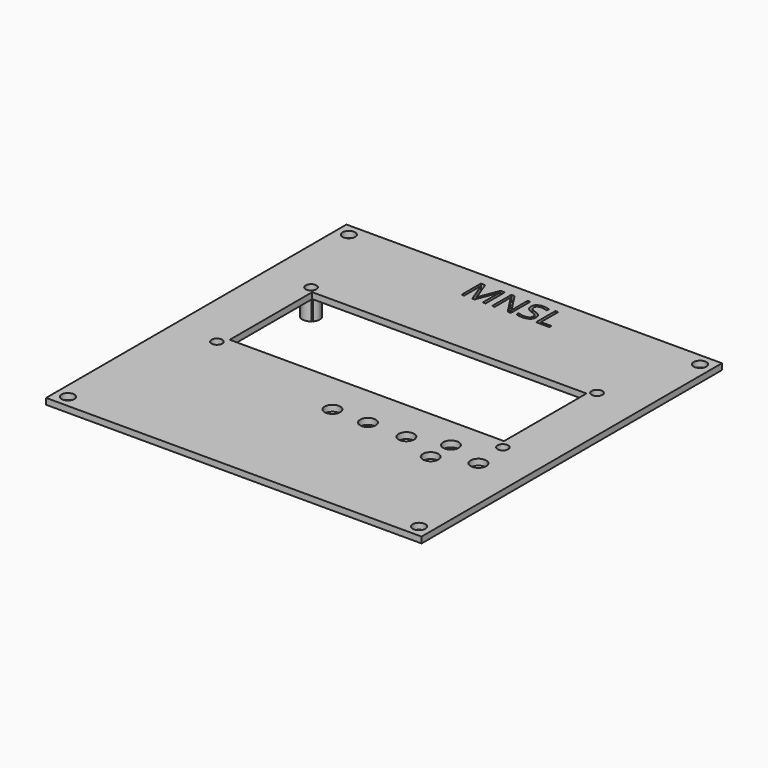
from build123d import *

# Parameters (mm, degrees)
F0_W     = 98.044
F0_H     = 98.044
F0_R     = 1.651
F0_R_2   = 2.286
F0_R_3   = 2.032
F0_R_4   = 1.397
F1_DEPTH = 1.5875
F2_DEPTH = 5.08


with BuildPart() as f1:
    # F0 (on Top) → F1 (new body)
    with BuildSketch(Plane.XY):
        Rectangle(F0_W, F0_H)
        with Locations((-45.847, -45.847)):
            Circle(F0_R, mode=Mode.SUBTRACT)
        with Locations((-37.338, -7.874)):
            Circle(F0_R_2, mode=Mode.SUBTRACT)
        with Locations((-0.254, -16.51)):
            Circle(F0_R_3, mode=Mode.SUBTRACT)
        with Locations((45.847, -45.847)):
            Circle(F0_R, mode=Mode.SUBTRACT)
        with Locations((9.017, -16.51)):
            Circle(F0_R_3, mode=Mode.SUBTRACT)
        with Locations((19.05, -16.51)):
            Circle(F0_R_3, mode=Mode.SUBTRACT)
        with Locations((28.448, -20.32)):
            Circle(F0_R_3, mode=Mode.SUBTRACT)
        with Locations((28.448, -13.716)):
            Circle(F0_R_3, mode=Mode.SUBTRACT)
        with Locations((37.8543436527, -16.51)):
            Circle(F0_R_3, mode=Mode.SUBTRACT)
        with Locations((37.338, -7.874)):
            Circle(F0_R_2, mode=Mode.SUBTRACT)
        with Locations((-45.847, 45.847)):
            Circle(F0_R, mode=Mode.SUBTRACT)
        with BuildLine():
            Line((-7.9581705729, 39.497), (-8.5479709201, 39.497))
            Line((-8.5479709201, 39.497), (-10.6839301215, 45.0780546875))
            Line((-10.6839301215, 45.0780546875), (-10.7183810764, 45.0780546875))
            add(Edge.make_bspline(
                [(-10.7183810764, 45.0780546875), (-10.6577473958, 44.415218316), (-10.6577473958, 43.5015789931)],
                knots=[0, 0, 0, 1, 1, 1], degree=2))
            Line((-10.6577473958, 43.5015789931), (-10.6577473958, 39.497))
            Line((-10.6577473958, 39.497), (-11.3343641493, 39.497))
            Line((-11.3343641493, 39.497), (-11.3343641493, 45.7932565104))
            Line((-11.3343641493, 45.7932565104), (-10.2319335938, 45.7932565104))
            Line((-10.2319335938, 45.7932565104), (-8.2379123264, 40.5994305556))
            Line((-8.2379123264, 40.5994305556), (-8.2034613715, 40.5994305556))
            Line((-8.2034613715, 40.5994305556), (-6.1929036458, 45.7932565104))
            Line((-6.1929036458, 45.7932565104), (-5.0987413194, 45.7932565104))
            Line((-5.0987413194, 45.7932565104), (-5.0987413194, 39.497))
            Line((-5.0987413194, 39.497), (-5.8304796007, 39.497))
            Line((-5.8304796007, 39.497), (-5.8304796007, 43.5539444444))
            add(Edge.make_bspline(
                [(-5.8304796007, 43.5539444444), (-5.8304796007, 44.2512317708), (-5.7698459201, 45.0697864583)],
                knots=[0, 0, 0, 1, 1, 1], degree=2))
            Line((-5.7698459201, 45.0697864583), (-5.804296875, 45.0697864583))
            Line((-5.804296875, 45.0697864583), (-7.9581705729, 39.497))
        make_face(mode=Mode.SUBTRACT)
        with BuildLine():
            Line((1.5461588542, 45.7932565104), (1.5461588542, 39.497))
            Line((1.5461588542, 39.497), (0.7110677083, 39.497))
            Line((0.7110677083, 39.497), (-2.7298936632, 44.7803984375))
            Line((-2.7298936632, 44.7803984375), (-2.7643446181, 44.7803984375))
            add(Edge.make_bspline(
                [(-2.7643446181, 44.7803984375), (-2.6954427083, 43.8502226563), (-2.6954427083, 43.075765191)],
                knots=[0, 0, 0, 1, 1, 1], degree=2))
            Line((-2.6954427083, 43.075765191), (-2.6954427083, 39.497))
            Line((-2.6954427083, 39.497), (-3.3720594618, 39.497))
            Line((-3.3720594618, 39.497), (-3.3720594618, 45.7932565104))
            Line((-3.3720594618, 45.7932565104), (-2.5452365451, 45.7932565104))
            Line((-2.5452365451, 45.7932565104), (0.8874565972, 40.5305286458))
            Line((0.8874565972, 40.5305286458), (0.9219075521, 40.5305286458))
            add(Edge.make_bspline(
                [(0.9219075521, 40.5305286458), (0.9136393229, 40.6462838542), (0.8833224826, 41.2774253472)],
                knots=[0, 0, 0, 1, 1, 1], degree=2))
            add(Edge.make_bspline(
                [(0.8833224826, 41.2774253472), (0.8530056424, 41.9085668403), (0.8612738715, 42.1800403646)],
                knots=[0, 0, 0, 1, 1, 1], degree=2))
            Line((0.8612738715, 42.1800403646), (0.8612738715, 45.7932565104))
            Line((0.8612738715, 45.7932565104), (1.5461588542, 45.7932565104))
        make_face(mode=Mode.SUBTRACT)
        with BuildLine():
            ThreePointArc((-35.814, 21.1561162011), (-39.4248229441, 23.793255592), (-35.052, 22.86))
            ThreePointArc((-35.052, 22.86), (-35.2024819874, 22.0443047028), (-35.6341162011, 21.336))
            Line((-35.6341162011, 21.336), (35.6341162011, 21.336))
            ThreePointArc((35.6341162011, 21.336), (36.5223047028, 24.9955180126), (39.624, 22.86))
            ThreePointArc((39.624, 22.86), (38.271255592, 20.7731770559), (35.814, 21.1561162011))
            Line((35.814, 21.1561162011), (35.814, -5.588))
            Line((35.814, -5.588), (-35.814, -5.588))
            Line((-35.814, -5.588), (-35.814, 21.1561162011))
        make_face(mode=Mode.SUBTRACT)
        with BuildLine():
            add(Edge.make_bspline(
                [(6.4574869792, 42.2227595486), (6.8295572917, 41.8176163194), (6.8295572917, 41.1726944444)],
                knots=[0, 0, 0, 1, 1, 1], degree=2))
            add(Edge.make_bspline(
                [(6.8295572917, 41.1726944444), (6.8295572917, 40.3417374132), (6.2266655816, 39.8759605035)],
                knots=[0, 0, 0, 1, 1, 1], degree=2))
            add(Edge.make_bspline(
                [(6.2266655816, 39.8759605035), (5.6237738715, 39.4101835938), (4.5902452257, 39.4101835938)],
                knots=[0, 0, 0, 1, 1, 1], degree=2))
            add(Edge.make_bspline(
                [(4.5902452257, 39.4101835938), (3.4712782118, 39.4101835938), (2.8676974826, 39.6995716146)],
                knots=[0, 0, 0, 1, 1, 1], degree=2))
            Line((2.8676974826, 39.6995716146), (2.8676974826, 40.4051271701))
            add(Edge.make_bspline(
                [(2.8676974826, 40.4051271701), (3.2563042535, 40.2425186632), (3.7124348958, 40.1474340278)],
                knots=[0, 0, 0, 1, 1, 1], degree=2))
            add(Edge.make_bspline(
                [(3.7124348958, 40.1474340278), (4.1685655382, 40.0523493924), (4.6164279514, 40.0523493924)],
                knots=[0, 0, 0, 1, 1, 1], degree=2))
            add(Edge.make_bspline(
                [(4.6164279514, 40.0523493924), (5.3481662326, 40.0523493924), (5.7188585069, 40.3300240885)],
                knots=[0, 0, 0, 1, 1, 1], degree=2))
            add(Edge.make_bspline(
                [(5.7188585069, 40.3300240885), (6.0895507813, 40.6076987847), (6.0895507813, 41.1037925347)],
                knots=[0, 0, 0, 1, 1, 1], degree=2))
            add(Edge.make_bspline(
                [(6.0895507813, 41.1037925347), (6.0895507813, 41.4303875868), (5.9579481337, 41.6391603733)],
                knots=[0, 0, 0, 1, 1, 1], degree=2))
            add(Edge.make_bspline(
                [(5.9579481337, 41.6391603733), (5.8263454861, 41.8479331597), (5.5183539497, 42.0250110677)],
                knots=[0, 0, 0, 1, 1, 1], degree=2))
            add(Edge.make_bspline(
                [(5.5183539497, 42.0250110677), (5.2103624132, 42.2020889757), (4.5819769965, 42.4253311632)],
                knots=[0, 0, 0, 1, 1, 1], degree=2))
            add(Edge.make_bspline(
                [(4.5819769965, 42.4253311632), (3.7041666667, 42.7395238715), (3.3272732205, 43.1701608073)],
                knots=[0, 0, 0, 1, 1, 1], degree=2))
            add(Edge.make_bspline(
                [(3.3272732205, 43.1701608073), (2.9503797743, 43.6007977431), (2.9503797743, 44.2939509549)],
                knots=[0, 0, 0, 1, 1, 1], degree=2))
            add(Edge.make_bspline(
                [(2.9503797743, 44.2939509549), (2.9503797743, 45.0215551215), (3.4967719184, 45.4521920573)],
                knots=[0, 0, 0, 1, 1, 1], degree=2))
            add(Edge.make_bspline(
                [(3.4967719184, 45.4521920573), (4.0431640625, 45.8828289931), (4.9444010417, 45.8828289931)],
                knots=[0, 0, 0, 1, 1, 1], degree=2))
            add(Edge.make_bspline(
                [(4.9444010417, 45.8828289931), (5.8828450521, 45.8828289931), (6.6710828993, 45.5383194444)],
                knots=[0, 0, 0, 1, 1, 1], degree=2))
            Line((6.6710828993, 45.5383194444), (6.442328559, 44.9016657986))
            add(Edge.make_bspline(
                [(6.442328559, 44.9016657986), (5.662358941, 45.2282608507), (4.9264865451, 45.2282608507)],
                knots=[0, 0, 0, 1, 1, 1], degree=2))
            add(Edge.make_bspline(
                [(4.9264865451, 45.2282608507), (4.3449544271, 45.2282608507), (4.0176703559, 44.9788359375)],
                knots=[0, 0, 0, 1, 1, 1], degree=2))
            add(Edge.make_bspline(
                [(4.0176703559, 44.9788359375), (3.6903862847, 44.7294110243), (3.6903862847, 44.2856827257)],
                knots=[0, 0, 0, 1, 1, 1], degree=2))
            add(Edge.make_bspline(
                [(3.6903862847, 44.2856827257), (3.6903862847, 43.9590876736), (3.8109646267, 43.7496258681)],
                knots=[0, 0, 0, 1, 1, 1], degree=2))
            add(Edge.make_bspline(
                [(3.8109646267, 43.7496258681), (3.9315429688, 43.5401640625), (4.2181749132, 43.3658422309)],
                knots=[0, 0, 0, 1, 1, 1], degree=2))
            add(Edge.make_bspline(
                [(4.2181749132, 43.3658422309), (4.5048068576, 43.1915203993), (5.0946072049, 42.9806805556)],
                knots=[0, 0, 0, 1, 1, 1], degree=2))
            add(Edge.make_bspline(
                [(5.0946072049, 42.9806805556), (6.0854166667, 42.6279027778), (6.4574869792, 42.2227595486)],
                knots=[0, 0, 0, 1, 1, 1], degree=2))
        make_face(mode=Mode.SUBTRACT)
        Polygon((11.6278862847, 39.497), (8.1180230035, 39.497), (8.1180230035, 45.7932565104), (8.8497612847, 45.7932565104), (8.8497612847, 40.1598363715), (11.6278862847, 40.1598363715), align=None, mode=Mode.SUBTRACT)
        with Locations((45.847, 45.847)):
            Circle(F0_R, mode=Mode.SUBTRACT)
        with Locations((-37.338, -7.874)):
            Circle(F0_R_2)
        with Locations((-37.338, -7.874)):
            Circle(F0_R_4, mode=Mode.SUBTRACT)
        with Locations((37.338, -7.874)):
            Circle(F0_R_2)
        with Locations((37.338, -7.874)):
            Circle(F0_R_4, mode=Mode.SUBTRACT)
        with BuildLine():
            ThreePointArc((39.624, 22.86), (36.5223047028, 24.9955180126), (35.6341162011, 21.336))
            Line((35.6341162011, 21.336), (35.814, 21.336))
            Line((35.814, 21.336), (35.814, 21.1561162011))
            ThreePointArc((35.814, 21.1561162011), (38.271255592, 20.7731770559), (39.624, 22.86))
        make_face()
        with Locations((37.338, 22.86)):
            Circle(F0_R_4, mode=Mode.SUBTRACT)
        with BuildLine():
            ThreePointArc((-35.6341162011, 21.336), (-35.2024819874, 22.0443047028), (-35.052, 22.86))
            ThreePointArc((-35.052, 22.86), (-39.4248229441, 23.793255592), (-35.814, 21.1561162011))
            Line((-35.814, 21.1561162011), (-35.814, 21.336))
            Line((-35.814, 21.336), (-35.6341162011, 21.336))
        make_face()
        with Locations((-37.338, 22.86)):
            Circle(F0_R_4, mode=Mode.SUBTRACT)
    extrude(amount=F1_DEPTH)

    # F0 (on Top) → F2 (join)
    with BuildSketch(Plane.XY):
        with BuildLine():
            ThreePointArc((39.624, 22.86), (36.5223047028, 24.9955180126), (35.6341162011, 21.336))
            Line((35.6341162011, 21.336), (35.814, 21.336))
            Line((35.814, 21.336), (35.814, 21.1561162011))
            ThreePointArc((35.814, 21.1561162011), (38.271255592, 20.7731770559), (39.624, 22.86))
        make_face()
        with Locations((37.338, 22.86)):
            Circle(F0_R_4, mode=Mode.SUBTRACT)
        with Locations((-37.338, -7.874)):
            Circle(F0_R_2)
        with Locations((-37.338, -7.874)):
            Circle(F0_R_4, mode=Mode.SUBTRACT)
        with BuildLine():
            ThreePointArc((-35.6341162011, 21.336), (-35.2024819874, 22.0443047028), (-35.052, 22.86))
            ThreePointArc((-35.052, 22.86), (-39.4248229441, 23.793255592), (-35.814, 21.1561162011))
            Line((-35.814, 21.1561162011), (-35.814, 21.336))
            Line((-35.814, 21.336), (-35.6341162011, 21.336))
        make_face()
        with Locations((-37.338, 22.86)):
            Circle(F0_R_4, mode=Mode.SUBTRACT)
        with Locations((37.338, -7.874)):
            Circle(F0_R_2)
        with Locations((37.338, -7.874)):
            Circle(F0_R_4, mode=Mode.SUBTRACT)
    extrude(amount=-F2_DEPTH)


solid = f1.part
